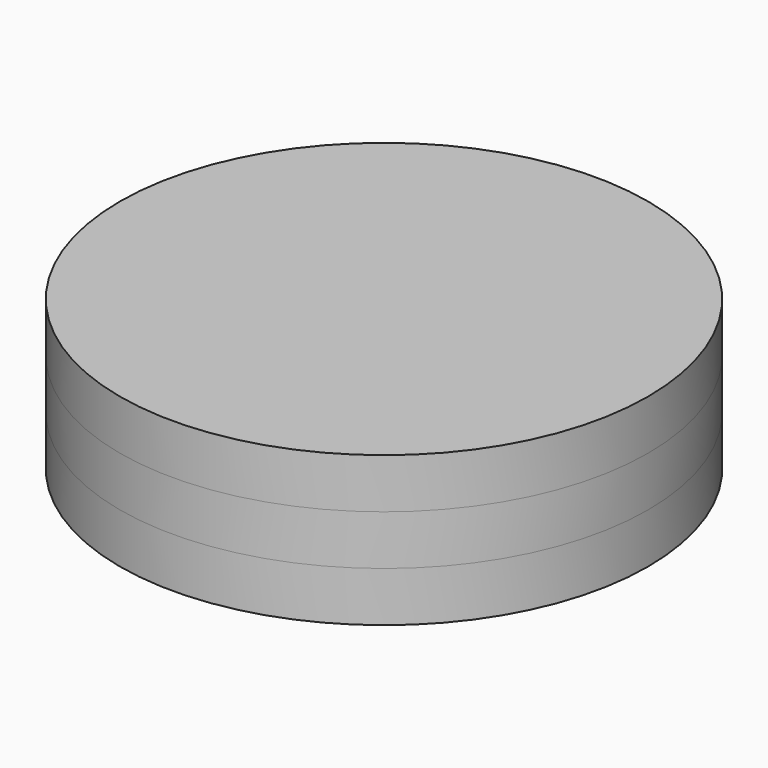
from build123d import *

# Parameters (mm, degrees)
F0_R     = 9
F1_DEPTH = 0.85


with BuildPart() as f1:
    # F0 (on Top) → F1 (new body, symmetric)
    with BuildSketch(Plane.XY):
        Circle(F0_R)
    extrude(amount=F1_DEPTH, both=True)


with BuildPart() as f2_1:
    # F2: instance of F1
    add(f1.part.mirror(Plane.XY.offset(0.85)))


with BuildPart() as f3_1:
    # F3: instance of F1
    add(f1.part.mirror(Plane(origin=(0, 0, -0.85), x_dir=(1, 0, 0), z_dir=(0, 0, -1))))


solid = Compound([f1.part, f2_1.part, f3_1.part])
